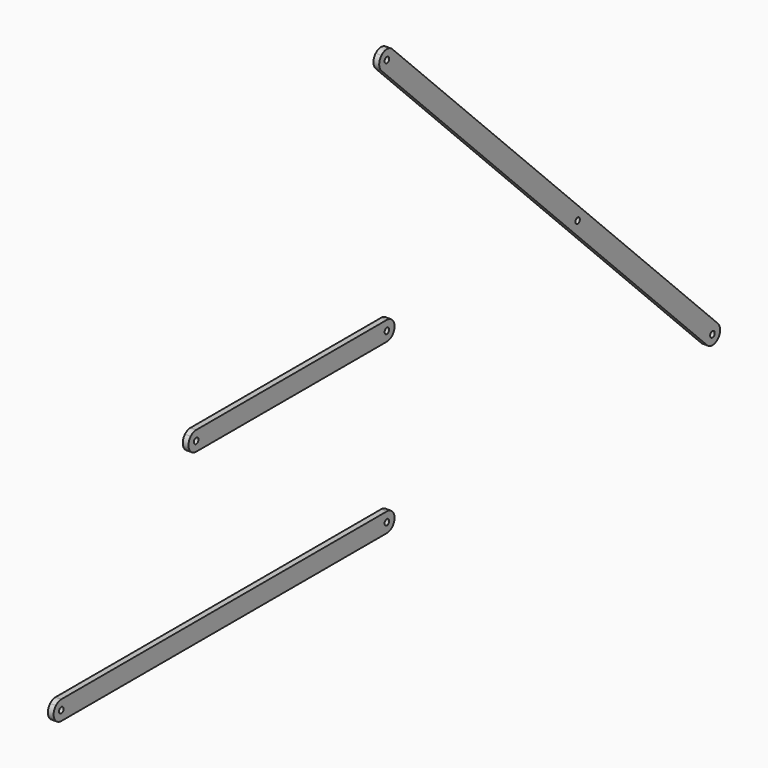
from build123d import *

# Parameters (mm, degrees)
F1_DEPTH = 3
F2_DEPTH = 3
F3_D     = 3
F3_2_D   = 3
F4_DEPTH = 3
F5_D     = 3
F6_D     = 3


with BuildPart() as f1:
    # F0 (on Right) → F1 (new body)
    with BuildSketch(Plane.YZ):
        with BuildLine():
            ThreePointArc((-208.59650045, 215.6675682619), (-207.132034356, 212.132034356), (-208.59650045, 208.59650045))
            Line((-208.59650045, 208.59650045), (-212.132034356, 205.0609665441))
            Line((-212.132034356, 205.0609665441), (-3.5355339059, -3.5355339059))
            ThreePointArc((-3.5355339059, -3.5355339059), (3.5355339059, -3.5355339059), (3.5355339059, 3.5355339059))
            Line((3.5355339059, 3.5355339059), (-208.59650045, 215.6675682619))
        make_face()
        Polygon((-212.132034356, 205.0609665441), (-208.59650045, 208.59650045), (-212.132034356, 212.132034356), (-215.6675682619, 208.59650045), align=None)
        with BuildLine():
            Line((-212.132034356, 212.132034356), (-208.59650045, 208.59650045))
            ThreePointArc((-208.59650045, 208.59650045), (-207.132034356, 212.132034356), (-208.59650045, 215.6675682619))
            ThreePointArc((-208.59650045, 215.6675682619), (-212.132034356, 217.132034356), (-215.6675682619, 215.6675682619))
            ThreePointArc((-215.6675682619, 215.6675682619), (-217.132034356, 212.132034356), (-215.6675682619, 208.59650045))
            Line((-215.6675682619, 208.59650045), (-212.132034356, 212.132034356))
        make_face()
    extrude(amount=F1_DEPTH)

    # F3 (through all)
    with Locations(Plane(origin=(0, 0, 0), x_dir=(0, 1, 0), z_dir=(-1, 0, 0))):
        with Locations((-212.132034356, 0), (-424.2640687119, 0), (0, 0), (-212.132034356, -212.132034356)):
            Hole(F3_D / 2)

    # F6 (through all)
    with Locations(Plane(origin=(0, 0, 0), x_dir=(0, 1, 0), z_dir=(-1, 0, 0))):
        with Locations((-87.867965644, -87.867965644)):
            Hole(F6_D / 2)


with BuildPart() as f2:
    # F0 (on Right) → F2 (new body)
    with BuildSketch(Plane.YZ):
        with BuildLine():
            ThreePointArc((-420.728534806, -3.5355339059), (-422.3506515501, -4.6193976626), (-424.2640687119, -5))
            Line((-424.2640687119, -5), (-212.132034356, -5))
            ThreePointArc((-212.132034356, -5), (-207.132034356, 0), (-212.132034356, 5))
            Line((-212.132034356, 5), (-412.1930009001, 5))
            Line((-412.1930009001, 5), (-417.1930009001, 0))
            Line((-417.1930009001, 0), (-420.728534806, -3.5355339059))
        make_face()
        Polygon((-412.1930009001, 5), (-419.2640687119, 5), (-424.2640687119, 0), (-417.1930009001, 0), align=None)
        with BuildLine():
            ThreePointArc((-424.2640687119, 5), (-426.1774858738, 4.6193976626), (-427.7996026179, 3.5355339059))
            ThreePointArc((-427.7996026179, 3.5355339059), (-428.8834663745, -1.9134171618), (-424.2640687119, -5))
            ThreePointArc((-424.2640687119, -5), (-422.3506515501, -4.6193976626), (-420.728534806, -3.5355339059))
            Line((-420.728534806, -3.5355339059), (-417.1930009001, 0))
            Line((-417.1930009001, 0), (-424.2640687119, 0))
            Line((-424.2640687119, 0), (-419.2640687119, 5))
            Line((-419.2640687119, 5), (-424.2640687119, 5))
        make_face()
    extrude(amount=F2_DEPTH)

    # F3#2 (through all)
    with Locations(Plane(origin=(0, 0, 0), x_dir=(0, 1, 0), z_dir=(-1, 0, 0))):
        with Locations((-212.132034356, 0), (-424.2640687119, 0), (0, 0), (-212.132034356, -212.132034356)):
            Hole(F3_2_D / 2)


with BuildPart() as f4:
    # F0 (on Right) → F4 (new body)
    with BuildSketch(Plane.YZ):
        with BuildLine():
            Line((-212.132034356, 92.867965644), (-324.325035256, 92.867965644))
            Line((-324.325035256, 92.867965644), (-329.325035256, 87.867965644))
            Line((-329.325035256, 87.867965644), (-334.325035256, 82.867965644))
            Line((-334.325035256, 82.867965644), (-212.132034356, 82.867965644))
            ThreePointArc((-212.132034356, 82.867965644), (-207.132034356, 87.867965644), (-212.132034356, 92.867965644))
        make_face()
        Polygon((-329.325035256, 87.867965644), (-324.325035256, 92.867965644), (-331.3961030679, 92.867965644), (-336.3961030679, 87.867965644), align=None)
        with BuildLine():
            Line((-336.3961030679, 87.867965644), (-331.3961030679, 92.867965644))
            Line((-331.3961030679, 92.867965644), (-336.3961030679, 92.867965644))
            ThreePointArc((-336.3961030679, 92.867965644), (-338.3095202384, 92.487363303), (-339.9316369872, 91.4034995366))
            ThreePointArc((-339.9316369872, 91.4034995366), (-341.3961030679, 87.8679656346), (-339.9316369738, 84.3324317381))
            Line((-339.9316369738, 84.3324317381), (-336.3961030679, 87.867965644))
        make_face()
        with BuildLine():
            Line((-334.325035256, 82.867965644), (-329.325035256, 87.867965644))
            Line((-329.325035256, 87.867965644), (-336.3961030679, 87.867965644))
            Line((-336.3961030679, 87.867965644), (-339.9316369738, 84.3324317381))
            ThreePointArc((-339.9316369738, 84.3324317381), (-338.3095202297, 83.2485679815), (-336.3961030679, 82.867965644))
            Line((-336.3961030679, 82.867965644), (-334.325035256, 82.867965644))
        make_face()
    extrude(amount=F4_DEPTH)

    # F5 (through all)
    with Locations(Plane(origin=(0, 0, 0), x_dir=(0, 1, 0), z_dir=(-1, 0, 0))):
        with Locations((-336.3961030679, -87.867965644), (-212.132034356, -87.867965644)):
            Hole(F5_D / 2)


solid = Compound([f1.part, f2.part, f4.part])
